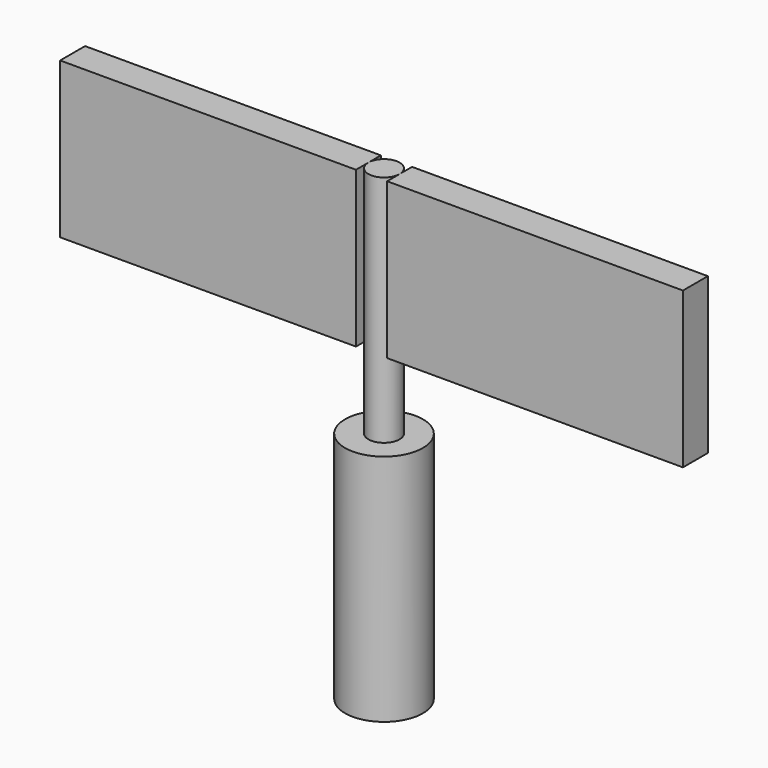
from build123d import *

# Parameters (mm, degrees)
F0_W     = 2.54
F0_H     = 12.7037496686
F0_H_2   = 25.4
F0_W_2   = 48.26
F4_DEPTH = 2.54


with BuildPart() as f1:
    # F0 (on Front) → F1 (revolve)
    with BuildSketch(Plane.XZ):
        Polygon((-126.4092789139, -19.05), (-126.4092789139, 0), (-126.4092789139, 12.7), (-126.4092789139, 19.05), (-128.9492789139, 19.05), (-132.7592789139, 19.05), (-132.7592789139, -19.05), align=None)
    revolve(axis=Axis((-126.4092789139, 0, 6.35), (0, 0, 1)))

    # F0 (on Front) → F2 (revolve)
    with BuildSketch(Plane.XZ):
        with Locations((-127.6792789139, 25.4018748343)):
            Rectangle(F0_W, F0_H)
    revolve(axis=Axis((-126.4092789139, 0, 38.1018748343), (0, 0, 1)))

    # F0 (on Front) → F3 (revolve)
    with BuildSketch(Plane.XZ):
        with Locations((-127.6792789139, 44.4537496686)):
            Rectangle(F0_W, F0_H_2)
    revolve(axis=Axis((-126.4092789139, 0, 38.1018748343), (0, 0, 1)))


with BuildPart() as f4:
    # F0 (on Front) → F4 (new body, symmetric)
    with BuildSketch(Plane.XZ):
        with Locations((-153.0792789139, 44.4537496686)):
            Rectangle(F0_W_2, F0_H_2)
    extrude(amount=F4_DEPTH, both=True)


with BuildPart() as f4b:
    # F0 (on Front) → F4, piece 2 (new body, symmetric)
    with BuildSketch(Plane.XZ):
        with Locations((-99.7392789139, 44.4537496686)):
            Rectangle(F0_W_2, F0_H_2)
    extrude(amount=F4_DEPTH, both=True)


solid = Compound([f1.part, f4.part, f4b.part])
